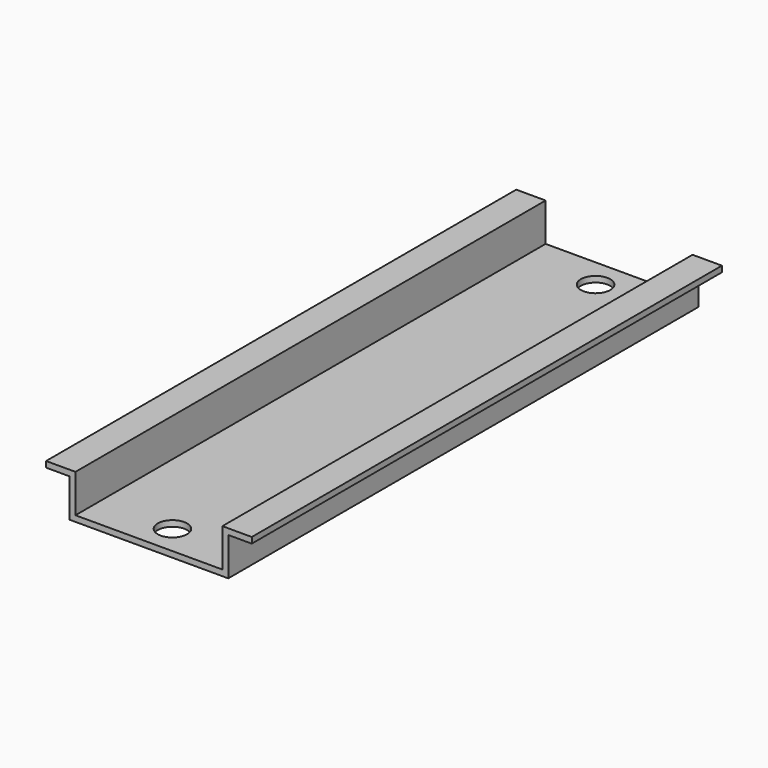
from build123d import *

# Parameters (mm, degrees)
F1_DEPTH = 100
F3_D     = 5


with BuildPart() as f1:
    # F0 (on Front) → F1 (new body)
    with BuildSketch(Plane.XZ):
        Polygon((-12.5, 3.75), (-17.5, 3.75), (-17.5, 2.75), (-13.5, 2.75), (-13.5, -3.75), (-2.6, -3.75), (2.6, -3.75), (13.5, -3.75), (13.5, 2.75), (17.5, 2.75), (17.5, 3.75), (12.5, 3.75), (12.5, -2.75), (2.6, -2.75), (-2.6, -2.75), (-12.5, -2.75), align=None)
    extrude(amount=-F1_DEPTH)

    # F3 (through all)
    with Locations(Plane.XY.offset(-2.75)):
        with Locations((0, 95), (0, 5)):
            Hole(F3_D / 2)


solid = f1.part
